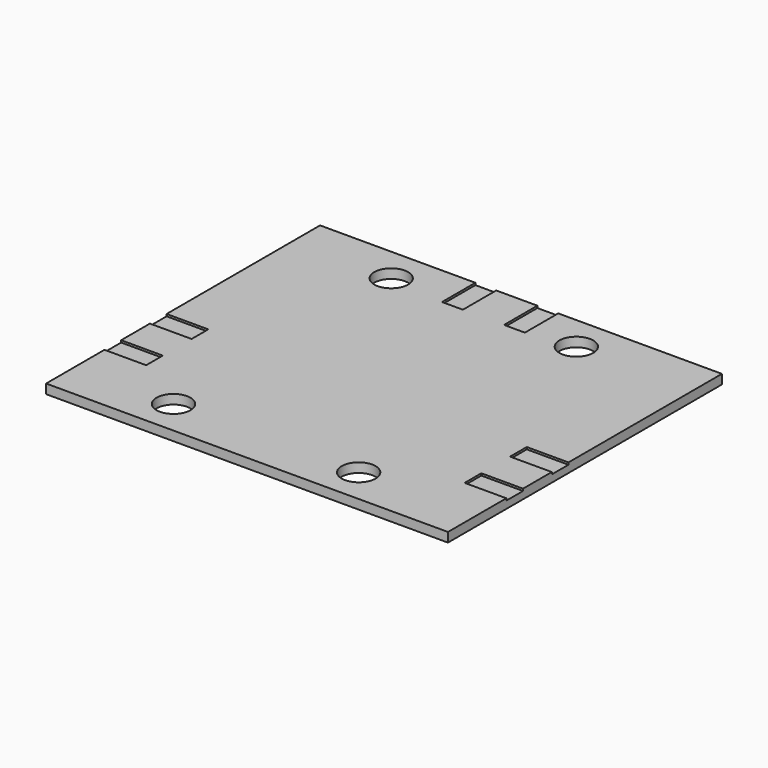
from build123d import *

# Parameters (mm, degrees)
F0_W     = 38.55
F0_H     = 32.85
F1_DEPTH = 0.9
F3_D     = 3.25
F4_W     = 2
F4_H     = 4
F4_W_2   = 4
F4_H_2   = 2
F5_DEPTH = 0.2


with BuildPart() as f1:
    # F0 (on Top) → F1 (new body)
    with BuildSketch(Plane.XY):
        with Locations((0.870858, 0)):
            Rectangle(F0_W, F0_H)
    extrude(amount=F1_DEPTH)

    # F3 (through all)
    with Locations(Plane.XY.offset(0.9)):
        with Locations((-8.879142, 13.05), (8.879142, 13.05), (8.879142, -13.05), (-8.879142, -13.05)):
            Hole(F3_D / 2)

    # F4 (on face) → F5 (cut)
    with BuildSketch(Plane.XY.offset(0.9)):
        with Locations((-2.504142, 14.425)):
            Rectangle(F4_W, F4_H)
        with Locations((3.445858, 14.425)):
            Rectangle(F4_W, F4_H)
        with Locations((18.145858, -2.975)):
            Rectangle(F4_W_2, F4_H_2)
        with Locations((18.145858, -8.425)):
            Rectangle(F4_W_2, F4_H_2)
        with Locations((-16.404142, -8.425)):
            Rectangle(F4_W_2, F4_H_2)
        with Locations((-16.404142, -2.975)):
            Rectangle(F4_W_2, F4_H_2)
    extrude(amount=-F5_DEPTH, mode=Mode.SUBTRACT)


solid = f1.part
